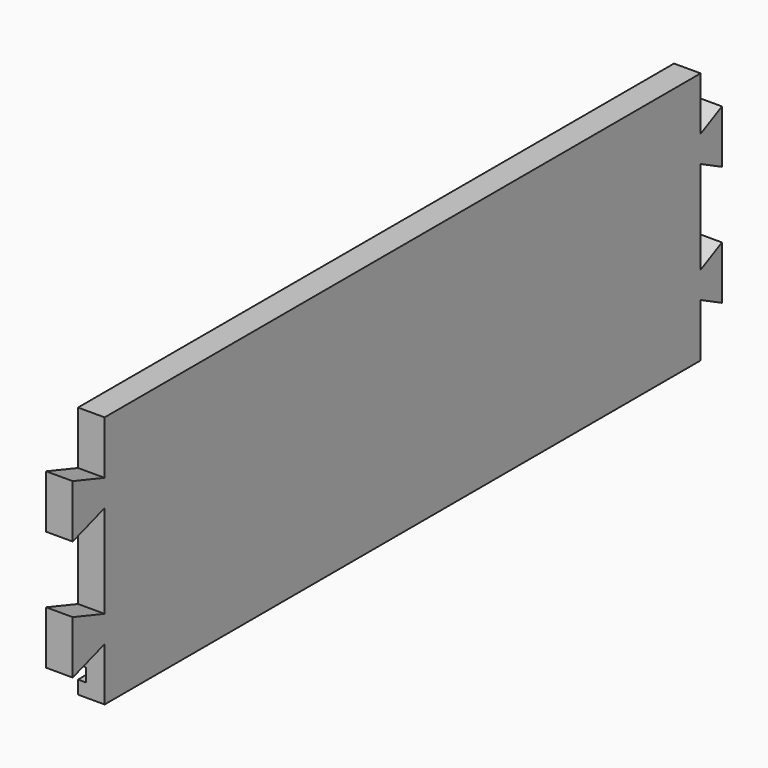
from build123d import *

# Parameters (mm, degrees)
F0_W     = 305
F0_H     = 95
F1_DEPTH = 10
F3_DEPTH = 25
F4_W     = 290
F4_H     = 5
F5_DEPTH = 3
F7_DEPTH = 25


with BuildPart() as f1:
    # F0 (on Right) → F1 (new body)
    with BuildSketch(Plane.YZ):
        with Locations((70.039693, 8.401494)):
            Rectangle(F0_W, F0_H)
    extrude(amount=F1_DEPTH)

    # F2 (on face) → F3 (cut)
    with BuildSketch(Plane.YZ.offset(10)):
        Polygon((-82.460307, 55.901494), (-82.460307, 40.901494), (-67.460307, 35.901494), (-67.460307, 55.901494), align=None)
        Polygon((-67.460307, 25.901494), (-82.460307, 20.901494), (-82.460307, -4.098506), (-67.460307, -9.098506), align=None)
        Polygon((-67.460307, -19.098506), (-82.460307, -24.098506), (-82.460307, -39.098506), (-67.460307, -39.098506), align=None)
    extrude(amount=-F3_DEPTH, mode=Mode.SUBTRACT)

    # F4 (on face) → F5 (cut)
    with BuildSketch(Plane(origin=(0, 0, 0), x_dir=(0, -1, 0), z_dir=(-1, 0, 0))):
        with Locations((-77.539693, -31.598506)):
            Rectangle(F4_W, F4_H)
    extrude(amount=-F5_DEPTH, mode=Mode.SUBTRACT)

    # F6 (on face) → F7 (cut)
    with BuildSketch(Plane.YZ.offset(10)):
        Polygon((212.539693, 35.901494), (222.539693, 40.901494), (222.539693, 55.901494), (212.539693, 55.901494), align=None)
        Polygon((222.539693, -4.098506), (222.539693, 20.901494), (212.539693, 25.901494), (212.539693, -9.098506), align=None)
        Polygon((222.539693, -39.098506), (222.539693, -24.098506), (212.539693, -19.098506), (212.539693, -39.098506), align=None)
    extrude(amount=-F7_DEPTH, mode=Mode.SUBTRACT)


solid = f1.part
